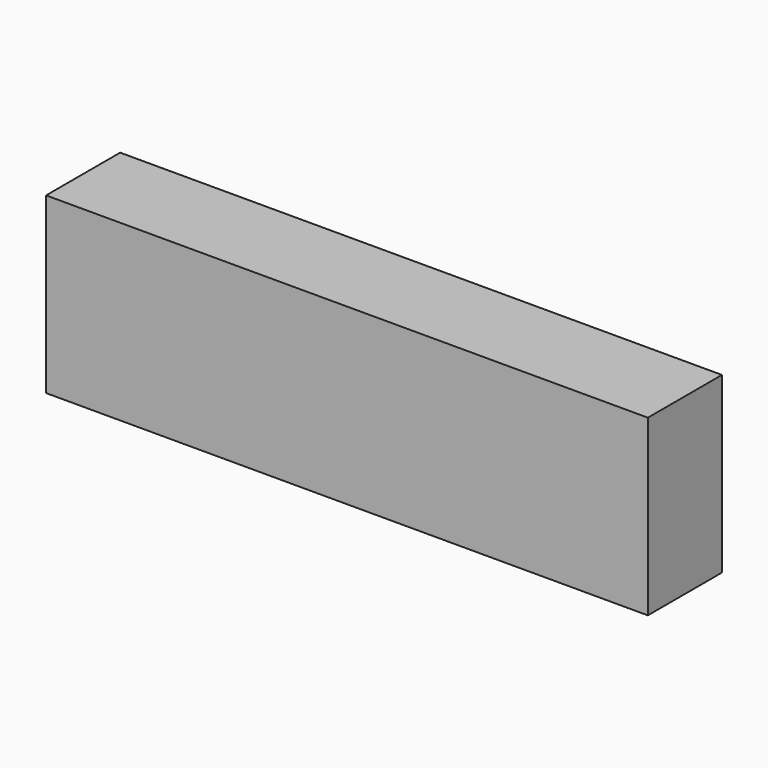
from build123d import *

# Parameters (mm, degrees)
F2_W     = 325
F2_H     = 94
F3_DEPTH = 25
F0_R     = 2.5
F1_DEPTH = 40


with BuildPart() as f3:
    # F2 (on Front) → F3 (new body, symmetric)
    with BuildSketch(Plane.XZ):
        Rectangle(F2_W, F2_H)
    extrude(amount=F3_DEPTH, both=True)

    # F0 (on face) → F1 (cut)
    with BuildSketch(Plane(origin=(-162.5, 0, 0), x_dir=(0, -1, 0), z_dir=(-1, 0, 0))):
        with Locations((0, -37)):
            Circle(F0_R)
        Circle(F0_R)
        with Locations((0, 37)):
            Circle(F0_R)
    extrude(amount=-F1_DEPTH, mode=Mode.SUBTRACT)


solid = f3.part
